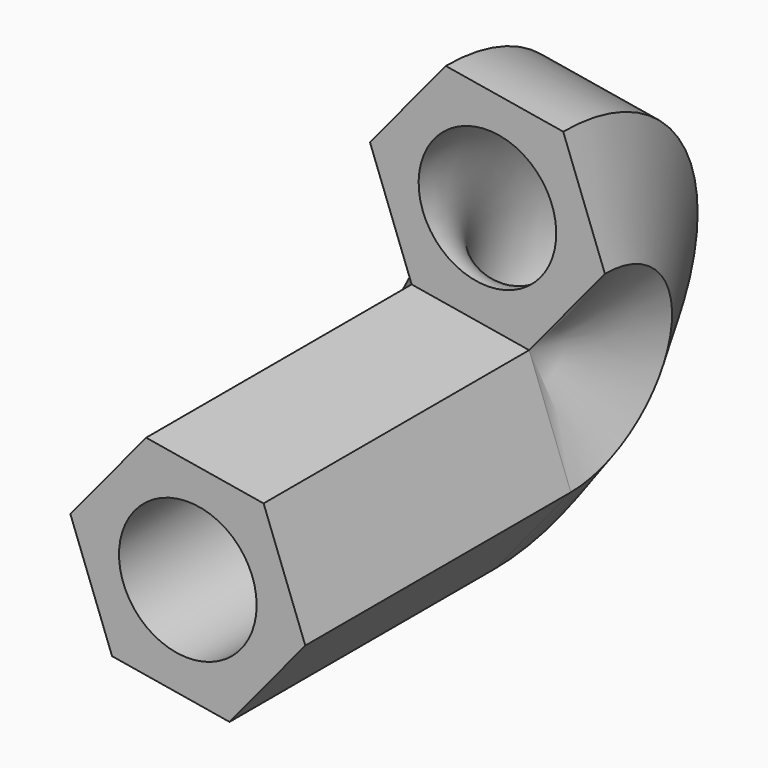
from build123d import *

# Parameters (mm, degrees)
F0_R      = 24.8798987062
F1_DEPTH  = 60
F1_FACE_R = 24.8798987062
F2_ANGLE  = 180


with BuildPart() as f1:
    # F0 (on Front) → F1 (new body, symmetric)
    with BuildSketch(Plane.XZ):
        Polygon((-42.4695287796, 7.1159532226), (-27.3973606527, -33.2217141986), (15.0721681269, -40.3376674212), (42.4695287796, -7.1159532226), (27.3973606527, 33.2217141986), (-15.0721681269, 40.3376674212), align=None)
        Circle(F0_R, mode=Mode.SUBTRACT)
    extrude(amount=F1_DEPTH, both=True)

    # F1_face (on face) → F2 (revolve)
    with BuildSketch(Plane(origin=(0, 60, 0), x_dir=(1, 0, 0), z_dir=(0, 1, 0))):
        Polygon((-42.4695287796, -7.1159532226), (-15.0721681269, -40.3376674212), (27.3973606527, -33.2217141986), (42.4695287796, 7.1159532226), (15.0721681269, 40.3376674212), (-27.3973606527, 33.2217141986), align=None)
        Circle(F1_FACE_R, mode=Mode.SUBTRACT)
    revolve(axis=Axis((6.1625962629, 60, 36.7796908099), (0.9862515905, 0, -0.1652507194)), revolution_arc=F2_ANGLE)


solid = f1.part
